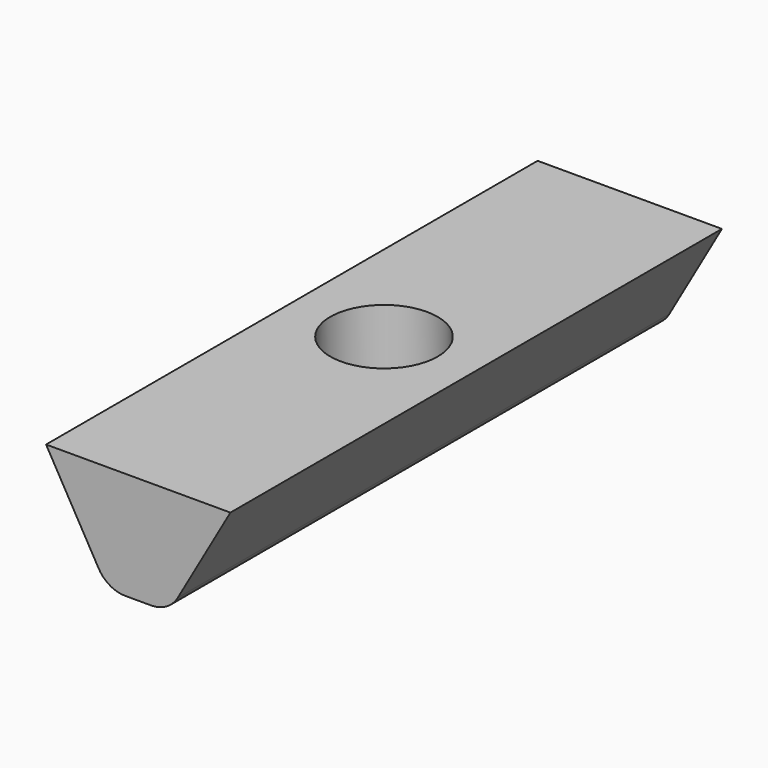
from build123d import *

# Parameters (mm, degrees)
F1_DEPTH = 10
F2_R     = 1.75
F3_DEPTH = 2
F4_R     = 1


with BuildPart() as f1:
    # F0 (on Front) → F1 (new body, symmetric)
    with BuildSketch(Plane.XZ):
        Polygon((-3, 3.5), (-1, 0), (1, 0), (3, 3.5), align=None)
    extrude(amount=F1_DEPTH, both=True)

    # F2 (on face) → F3 (cut)
    with BuildSketch(Plane.XY.offset(3.5)):
        Circle(F2_R)
    extrude(amount=-F3_DEPTH, mode=Mode.SUBTRACT)

    # F4
    f4_edges = [f1.edges().sort_by_distance(p)[0] for p in [
        (1, 0, 0),
        (-1, 0, 0),
    ]]
    fillet(f4_edges, radius=F4_R)


solid = f1.part
